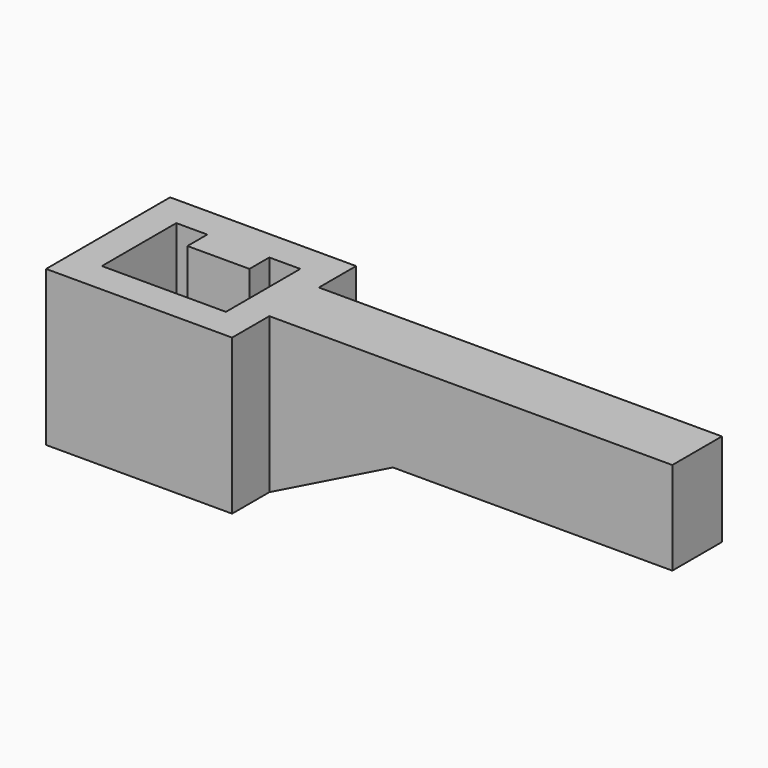
from build123d import *

# Parameters (mm, degrees)
F0_W      = 177.8
F0_H      = 19.05
F1_DEPTH  = 6.35
F2_W      = 38.1
F2_H      = 31.75
F2_W_2    = 25.4
F2_H_2    = 19.05
F3_DEPTH  = 31.75
F4_W      = 25.4
F4_H      = 19.05
F5_DEPTH  = 127
F6_W      = 12.7
F6_H      = 5.08
F7_DEPTH  = 31.75
F9_DEPTH  = 12.7
F10_W     = 63.5
F10_H     = 12.7
F11_DEPTH = 31.751


with BuildPart() as f1:
    # F0 (on Front) → F1 (new body, symmetric)
    with BuildSketch(Plane.XZ):
        Rectangle(F0_W, F0_H)
    extrude(amount=F1_DEPTH, both=True)

    # F2 (on face) → F3 (join)
    with BuildSketch(Plane.XY.offset(9.525)):
        with Locations((-76.2, 0)):
            Rectangle(F2_W, F2_H)
        with Locations((-76.2, 0)):
            Rectangle(F2_W_2, F2_H_2, mode=Mode.SUBTRACT)
    extrude(amount=-F3_DEPTH)

    # F4 (on face) → F5 (cut)
    with BuildSketch(Plane.XY.offset(9.525)):
        with Locations((-76.2, 0)):
            Rectangle(F4_W, F4_H)
    extrude(amount=-F5_DEPTH, mode=Mode.SUBTRACT)

    # F6 (on face) → F7 (join)
    with BuildSketch(Plane.XY.offset(9.525)):
        with Locations((-76.2, 6.985)):
            Rectangle(F6_W, F6_H)
    extrude(amount=-F7_DEPTH)

    # F8 (on face) → F9 (join)
    with BuildSketch(Plane.XZ.offset(6.35)):
        Polygon((-57.15, -22.225), (-31.829141, -9.525), (-57.15, -9.525), align=None)
    extrude(amount=-F9_DEPTH)

    # F10 (on face) → F11 (cut, through all)
    with BuildSketch(Plane.XY.offset(9.525)):
        with Locations((57.15, 0)):
            Rectangle(F10_W, F10_H)
    extrude(amount=-F11_DEPTH, mode=Mode.SUBTRACT)


solid = f1.part
